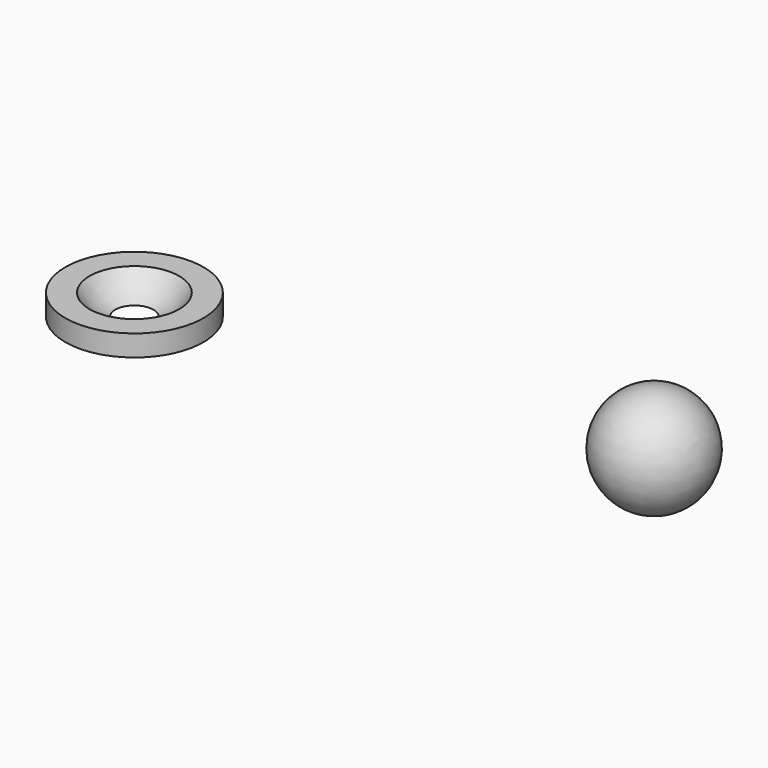
from build123d import *


with BuildPart() as f1:
    # F0 (on Front) → F1 (revolve)
    with BuildSketch(Plane.XZ):
        with BuildLine():
            ThreePointArc((0, 10), (-4.894532, 6.021548), (-2, 0.417424))
            Line((-2, 0.417424), (-2, 5))
            Line((-2, 5), (0, 5))
            Line((0, 5), (0, 10))
        make_face()
    revolve(axis=Axis((0, 0, 7.5), (0, 0, 1)))


with BuildPart() as f3:
    # F2 (on Front) → F3 (revolve)
    with BuildSketch(Plane.XZ):
        with BuildLine():
            Line((-55.526811, 0), (-50.806088, 0))
            ThreePointArc((-50.806088, 0), (-52.185109, 0.803202), (-53.240811, 2))
            Line((-53.240811, 2), (-55.526811, 2))
            Line((-55.526811, 2), (-55.526811, 0))
        make_face()
    revolve(axis=Axis((-49.011366, 0, 2.333397), (0, 0, -1)))


solid = Compound([f1.part, f3.part])
